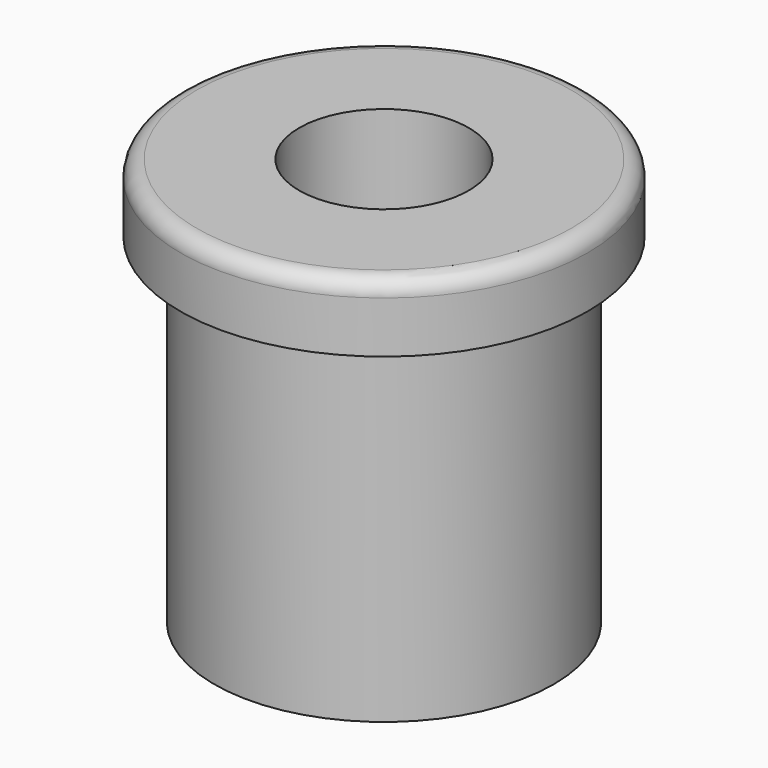
from build123d import *

# Parameters (mm, degrees)
F2_R = 0.762
F4_D = 7.9375


with BuildPart() as f1:
    # F0 (on Front) → F1 (revolve)
    with BuildSketch(Plane.XZ):
        Polygon((9.525, 0), (0, 0), (0, -19.05), (7.9375, -19.05), (7.9375, -3.175), (9.525, -3.175), align=None)
    revolve(axis=Axis((0, 0, -9.525), (0, 0, -1)))

    # F2
    f2_edges = [f1.edges().sort_by_distance(p)[0] for p in [
        (-9.525, 0, 0),
    ]]
    fillet(f2_edges, radius=F2_R)

    # F4 (through all)
    with Locations(Plane.XY):
        with Locations((0, 0)):
            Hole(F4_D / 2)


solid = f1.part
